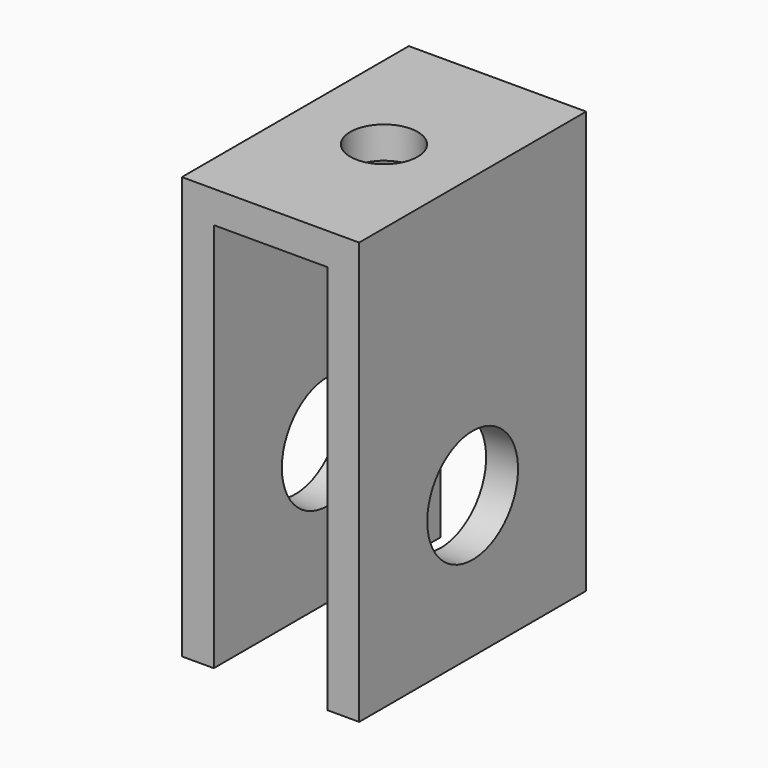
from build123d import *

# Parameters (mm, degrees)
F1_DEPTH = 80
F2_R     = 16
F3_DEPTH = 50.001
F4_R     = 9.5
F5_DEPTH = 119.001


with BuildPart() as f1:
    # F0 (on Front) → F1 (new body)
    with BuildSketch(Plane.XZ):
        Polygon((-29.880095, 26.308924), (-20.880095, 26.308924), (-20.880095, 136.308924), (11.119905, 136.308924), (11.119905, 26.308924), (20.119905, 26.308924), (20.119905, 145.308924), (-29.880095, 145.308924), align=None)
    extrude(amount=F1_DEPTH)

    # F2 (on face) → F3 (cut, through all)
    with BuildSketch(Plane(origin=(-29.880095, 0, 0), x_dir=(0, -1, 0), z_dir=(-1, 0, 0))):
        with Locations((40, 66.308924)):
            Circle(F2_R)
    extrude(amount=-F3_DEPTH, mode=Mode.SUBTRACT)

    # F4 (on face) → F5 (cut, through all)
    with BuildSketch(Plane.XY.offset(145.308924)):
        with Locations((-4.880095, -40)):
            Circle(F4_R)
    extrude(amount=-F5_DEPTH, mode=Mode.SUBTRACT)


solid = f1.part
